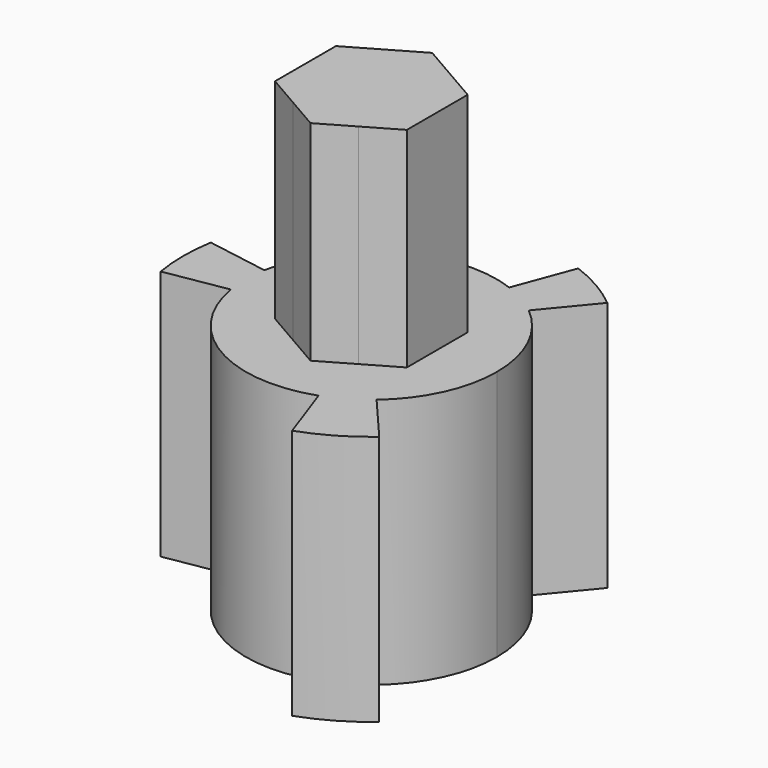
from build123d import *

# Parameters (mm, degrees)
F1_DEPTH = 12
F3_DEPTH = 10


with BuildPart() as f1:
    # F0 (on Top) → F1 (new body)
    with BuildSketch(Plane.XY):
        with BuildLine():
            Line((-5.9160797831, 1), (-8.8741196746, 1.5))
            ThreePointArc((-8.8741196746, 1.5), (-9, 0), (-8.8741196746, -1.5))
            Line((-8.8741196746, -1.5), (-5.9160797831, -1))
            ThreePointArc((-5.9160797831, -1), (-6, 0), (-5.9160797831, 1))
        make_face()
        with BuildLine():
            ThreePointArc((6, 0), (5.4280787943, 2.5565524839), (3.8213464657, 4.6257227748))
            ThreePointArc((3.8213464657, 4.6257227748), (3, 5.1961524227), (2.0953202009, 5.6222445034))
            ThreePointArc((2.0953202009, 5.6222445034), (-2.9984724458, 5.1970340572), (-5.9160797831, 1))
            ThreePointArc((-5.9160797831, 1), (-6, 0), (-5.9160797831, -1))
            ThreePointArc((-5.9160797831, -1), (-3.0422841899, -5.1715091519), (2, -5.6568542495))
            ThreePointArc((2, -5.6568542495), (3, -5.1961524227), (3.8989794856, -4.5604779323))
            ThreePointArc((3.8989794856, -4.5604779323), (5.4494897428, -2.5105898796), (6, 0))
        make_face()
        with BuildLine():
            Line((3.8213464657, 4.6257227748), (5.7320196986, 6.9385841621))
            ThreePointArc((5.7320196986, 6.9385841621), (4.5, 7.7942286341), (3.1429803014, 8.433366755))
            Line((3.1429803014, 8.433366755), (2.0953202009, 5.6222445034))
            ThreePointArc((2.0953202009, 5.6222445034), (3, 5.1961524227), (3.8213464657, 4.6257227748))
        make_face()
        with BuildLine():
            ThreePointArc((3, -8.4852813742), (4.5, -7.7942286341), (5.8484692283, -6.8407168985))
            Line((5.8484692283, -6.8407168985), (3.8989794856, -4.5604779323))
            ThreePointArc((3.8989794856, -4.5604779323), (3, -5.1961524227), (2, -5.6568542495))
            Line((2, -5.6568542495), (3, -8.4852813742))
        make_face()
    extrude(amount=F1_DEPTH)

    # F2 (on face) → F3 (join)
    with BuildSketch(Plane.XY.offset(12)):
        with BuildLine():
            ThreePointArc((1.5750000902, -2.7279799699), (2.727980048, -1.5749999549), (3.15, 0))
            ThreePointArc((3.15, 0), (2.7279800298, 1.5749999864), (1.5750000272, 2.7279800062))
            ThreePointArc((1.5750000272, 2.7279800062), (1.5e-08, 3.15), (-1.5750000013, 2.7279800212))
            ThreePointArc((-1.5750000013, 2.7279800212), (-2.7279800223, 1.5749999993), (-3.15, 0))
            ThreePointArc((-3.15, 0), (-2.7279800223, -1.5749999993), (-1.5750000013, -2.7279800212))
            ThreePointArc((-1.5750000013, -2.7279800212), (5.13e-08, -3.15), (1.5750000902, -2.7279799699))
        make_face()
        with BuildLine():
            Line((3.15, -1.8186533479), (3.15, 0))
            ThreePointArc((3.15, 0), (2.727980048, -1.5749999549), (1.5750000902, -2.7279799699))
            Line((1.5750000902, -2.7279799699), (3.15, -1.8186533479))
        make_face()
        with BuildLine():
            ThreePointArc((1.5750000272, 2.7279800062), (2.7279800298, 1.5749999864), (3.15, 0))
            Line((3.15, 0), (3.15, 1.8186533479))
            Line((3.15, 1.8186533479), (1.5750000272, 2.7279800062))
        make_face()
        with BuildLine():
            ThreePointArc((-1.5750000013, 2.7279800212), (1.5e-08, 3.15), (1.5750000272, 2.7279800062))
            Line((1.5750000272, 2.7279800062), (0, 3.6373066959))
            Line((0, 3.6373066959), (-1.5750000013, 2.7279800212))
        make_face()
        with BuildLine():
            Line((0, -3.6373066959), (1.5750000902, -2.7279799699))
            ThreePointArc((1.5750000902, -2.7279799699), (5.13e-08, -3.15), (-1.5750000013, -2.7279800212))
            Line((-1.5750000013, -2.7279800212), (0, -3.6373066959))
        make_face()
        with BuildLine():
            ThreePointArc((-3.15, 0), (-2.7279800223, 1.5749999993), (-1.5750000013, 2.7279800212))
            Line((-1.5750000013, 2.7279800212), (-3.15, 1.8186533479))
            Line((-3.15, 1.8186533479), (-3.15, 0))
        make_face()
        with BuildLine():
            Line((-3.15, -1.8186533479), (-1.5750000013, -2.7279800212))
            ThreePointArc((-1.5750000013, -2.7279800212), (-2.7279800223, -1.5749999993), (-3.15, 0))
            Line((-3.15, 0), (-3.15, -1.8186533479))
        make_face()
    extrude(amount=F3_DEPTH)


solid = f1.part
